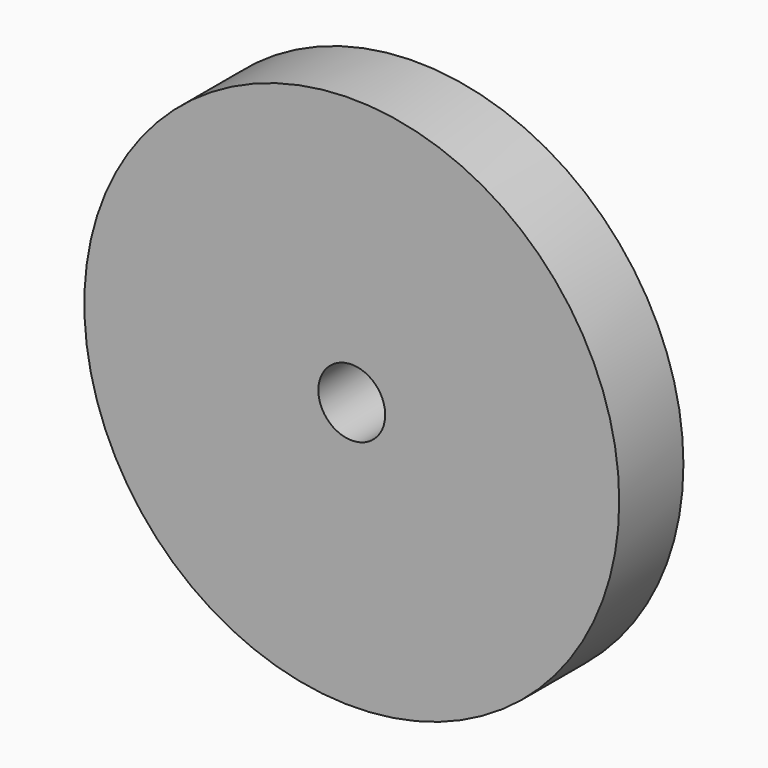
from build123d import *

# Parameters (mm, degrees)
F0_R     = 25.4
F1_DEPTH = 7.62
F3_D     = 6.35
F3_DEPTH = 50.8


with BuildPart() as f1:
    # F0 (on Front) → F1 (new body)
    with BuildSketch(Plane.XZ):
        Circle(F0_R)
    extrude(amount=F1_DEPTH)

    # F3
    with Locations(Plane.XZ.offset(7.62)):
        with Locations((0, 0)):
            Hole(F3_D / 2, depth=F3_DEPTH)


solid = f1.part
